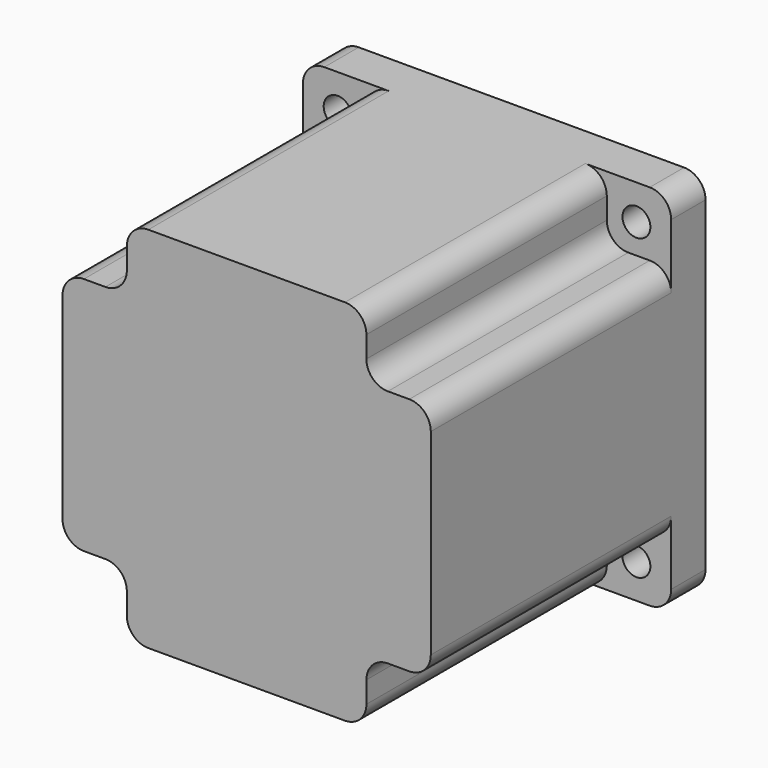
from build123d import *

# Parameters (mm, degrees)
F1_DEPTH  = 80
F2_W      = 15
F2_H      = 15
F3_DEPTH  = 70
F4_R      = 3.25
F5_DEPTH  = 10
F6_R      = 5
F7_R      = 36.5
F8_DEPTH  = 1.6
F9_R      = 7
F10_DEPTH = 35
F13_DEPTH = 5


with BuildPart() as f1:
    # F0 (on Front) → F1 (new body)
    with BuildSketch(Plane.XZ):
        with BuildLine():
            Line((37.9, 42.9), (-37.9, 42.9))
            ThreePointArc((-37.9, 42.9), (-41.4355339059, 41.4355339059), (-42.9, 37.9))
            Line((-42.9, 37.9), (-42.9, -37.9))
            ThreePointArc((-42.9, -37.9), (-41.4355339059, -41.4355339059), (-37.9, -42.9))
            Line((-37.9, -42.9), (37.9, -42.9))
            ThreePointArc((37.9, -42.9), (41.4355339059, -41.4355339059), (42.9, -37.9))
            Line((42.9, -37.9), (42.9, 37.9))
            ThreePointArc((42.9, 37.9), (41.4355339059, 41.4355339059), (37.9, 42.9))
        make_face()
    extrude(amount=F1_DEPTH)

    # F2 (on face) → F3 (cut)
    with BuildSketch(Plane.XZ.offset(80)):
        with Locations((35.4, 35.4)):
            Rectangle(F2_W, F2_H)
        with Locations((-35.4, 35.4)):
            Rectangle(F2_W, F2_H)
        with Locations((-35.4, -35.4)):
            Rectangle(F2_W, F2_H)
        with Locations((35.4, -35.4)):
            Rectangle(F2_W, F2_H)
    extrude(amount=-F3_DEPTH, mode=Mode.SUBTRACT)

    # F4 (on face) → F5 (cut, through all)
    with BuildSketch(Plane(origin=(0, 0, 0), x_dir=(-1, 0, 0), z_dir=(0, 1, 0))):
        with Locations((34.8, 34.8)):
            Circle(F4_R)
        with Locations((-34.8, 34.8)):
            Circle(F4_R)
        with Locations((34.8, -34.8)):
            Circle(F4_R)
        with Locations((-34.8, -34.8)):
            Circle(F4_R)
    extrude(amount=-F5_DEPTH, mode=Mode.SUBTRACT)

    # F6
    f6_edges = [f1.edges().sort_by_distance(p)[0] for p in [
        (-42.9, -45, 27.9),
        (-42.9, -45, -27.9),
        (-27.9, -45, -27.9),
        (-27.9, -45, -42.9),
        (27.9, -45, -42.9),
        (-27.9, -45, 42.9),
        (27.9, -45, -27.9),
        (42.9, -45, -27.9),
        (42.9, -45, 27.9),
        (27.9, -45, 42.9),
        (27.9, -45, 27.9),
        (-27.9, -45, 27.9),
    ]]
    fillet(f6_edges, radius=F6_R)

    # F7 (on face) → F8 (join)
    with BuildSketch(Plane(origin=(0, 0, 0), x_dir=(-1, 0, 0), z_dir=(0, 1, 0))):
        Circle(F7_R)
    extrude(amount=F8_DEPTH)

    # F9 (on face) → F10 (join)
    with BuildSketch(Plane(origin=(0, 0, 0), x_dir=(-1, 0, 0), z_dir=(0, 1, 0))):
        Circle(F9_R)
    extrude(amount=F10_DEPTH)

    # F12 (on offset) → F13 (cut)
    with BuildSketch(Plane.YZ.offset(4)):
        with BuildLine():
            Line((35, 2.5), (12.5, 2.5))
            ThreePointArc((12.5, 2.5), (10.732233047, 1.767766953), (10, 0))
            ThreePointArc((10, 0), (10.732233047, -1.767766953), (12.5, -2.5))
            Line((12.5, -2.5), (35, -2.5))
            Line((35, -2.5), (35, 0))
            Line((35, 0), (35, 2.5))
        make_face()
    extrude(amount=F13_DEPTH, mode=Mode.SUBTRACT)


solid = f1.part
